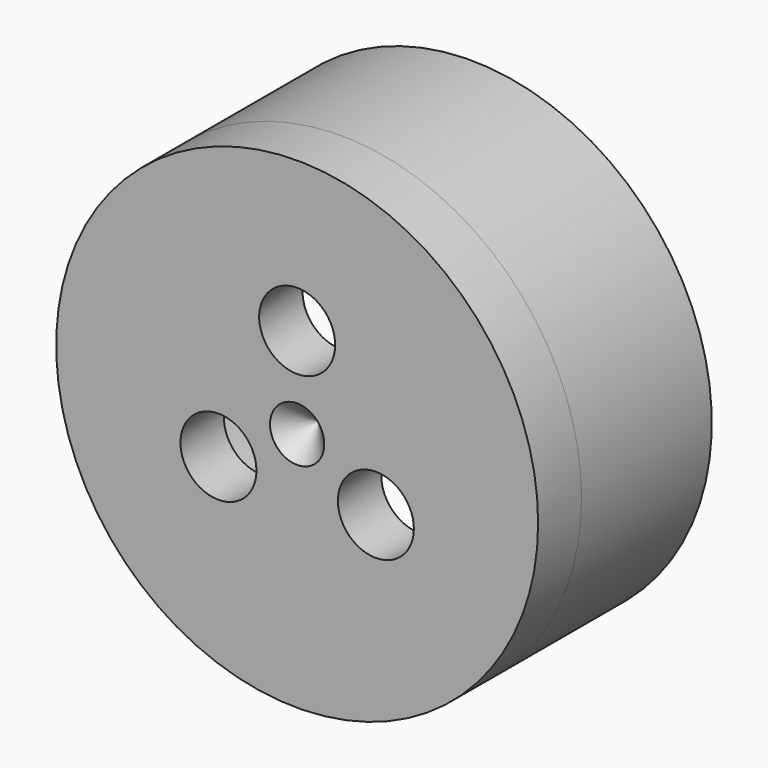
from build123d import *

# Parameters (mm, degrees)
F0_R           = 44.4
F1_DEPTH       = 10
F2_R           = 44.4
F2_R_2         = 38.1
F3_DEPTH       = 30
F4_R           = 7
F5_DEPTH       = 40.001
F7_D           = 0.02
F7_DEPTH       = 5
F7_CSINK_D     = 10
F7_CSINK_ANGLE = 90
F7_TIP         = 0.0060086062


with BuildPart() as f1:
    # F0 (on Front) → F1 (new body)
    with BuildSketch(Plane.XZ):
        Circle(F0_R)
    extrude(amount=F1_DEPTH)

    # F2 (on face) → F3 (join)
    with BuildSketch(Plane(origin=(0, 0, 0), x_dir=(-1, 0, 0), z_dir=(0, 1, 0))):
        Circle(F2_R)
        Circle(F2_R_2, mode=Mode.SUBTRACT)
    extrude(amount=F3_DEPTH)

    # F4 (on face) → F5 (cut, through all)
    with BuildSketch(Plane.XZ.offset(10)):
        with Locations((0, 16.7431578065)):
            Circle(F4_R)
        with Locations((-14.5, -8.3715789032)):
            Circle(F4_R)
        with Locations((14.5, -8.3715789032)):
            Circle(F4_R)
    extrude(amount=-F5_DEPTH, mode=Mode.SUBTRACT)

    # F7
    with Locations(Plane.XZ.offset(10)):
        with Locations((0, 0)):
            CounterSinkHole(F7_D / 2, F7_CSINK_D / 2, depth=F7_DEPTH, counter_sink_angle=F7_CSINK_ANGLE)
            with Locations((0, 0, -(F7_DEPTH + F7_TIP / 2))):  # 118° drill point
                Cone(0, F7_D / 2, F7_TIP, mode=Mode.SUBTRACT)


solid = f1.part
